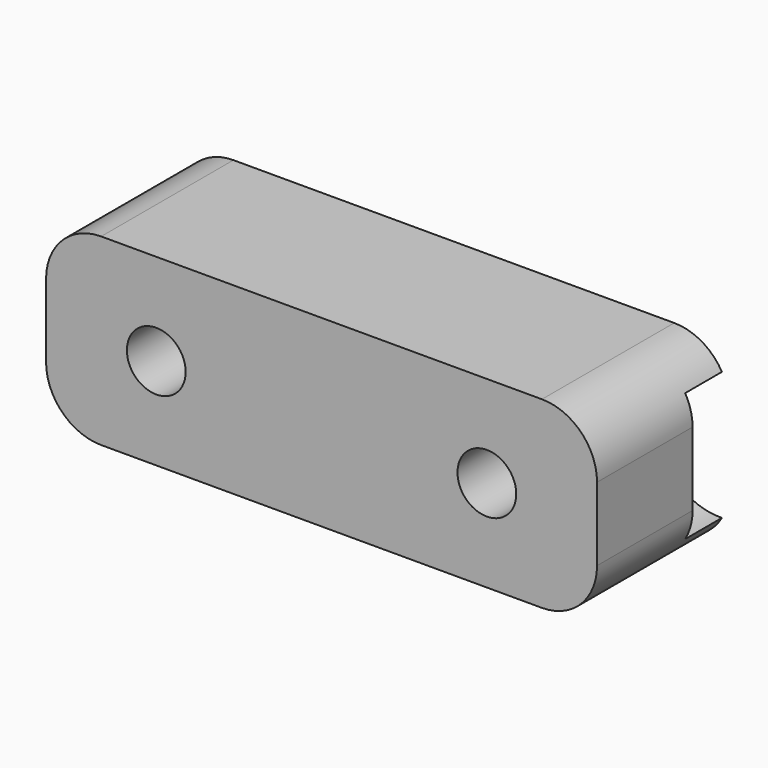
from build123d import *

# Parameters (mm, degrees)
CYLINDER465_R     = 3.5
CYLINDER465_DEPTH = 2.5
CYLINDER152_R     = 1.6
CYLINDER152_DEPTH = 9
CYLINDER153_R     = 1.6
CYLINDER153_DEPTH = 9
CYLINDER154_R     = 1.6
CYLINDER154_DEPTH = 9
CYLINDER155_R     = 1.6
CYLINDER155_DEPTH = 9
BOX072_W          = 30
BOX072_H          = 9
BOX072_DEPTH      = 10
FILLET035_R       = 3


with BuildPart() as cylinder579:
    # Cylinder465 → Cylinder465 (new body)
    with BuildSketch(Plane(origin=(569.5, -10, 10), x_dir=(1, 0, 0), z_dir=(0, -1, 0))):
        Circle(CYLINDER465_R)
    extrude(amount=CYLINDER465_DEPTH)


with BuildPart() as cylinder152:
    # Cylinder152 → Cylinder152 (new body)
    with BuildSketch(Plane(origin=(555, -5, 10), x_dir=(1, 0, 0), z_dir=(0, -1, 0))):
        Circle(CYLINDER152_R)
    extrude(amount=CYLINDER152_DEPTH)


with BuildPart() as fusion138:
    # Cylinder153 → Cylinder153 (new body)
    with BuildSketch(Plane(origin=(450, -5, 10), x_dir=(1, 0, 0), z_dir=(0, -1, 0))):
        Circle(CYLINDER153_R)
    extrude(amount=CYLINDER153_DEPTH)

    # Fusion138: union Cylinder152
    add(cylinder152.part)


with BuildPart() as fusion138_1:
    # Fusion138 placement: moved
    add(fusion138.part.moved(Location((-9, 5, 0))))


with BuildPart() as cylinder154:
    # Cylinder154 → Cylinder154 (new body)
    with BuildSketch(Plane(origin=(555, -5, 10), x_dir=(1, 0, 0), z_dir=(0, -1, 0))):
        Circle(CYLINDER154_R)
    extrude(amount=CYLINDER154_DEPTH)


with BuildPart() as fusion137:
    # Cylinder155 → Cylinder155 (new body)
    with BuildSketch(Plane(origin=(450, -5, 10), x_dir=(1, 0, 0), z_dir=(0, -1, 0))):
        Circle(CYLINDER155_R)
    extrude(amount=CYLINDER155_DEPTH)

    # Fusion139: union Cylinder154
    add(cylinder154.part)


with BuildPart() as fusion137_1:
    # Fusion139 placement: moved
    add(fusion137.part.moved(Location((9, 5, 0))))

    # Fusion137: union Fusion138
    add(fusion138_1.part)


with BuildPart() as fender_spacer_rear_left:
    # Box072 → Box072 (new body)
    with BuildSketch(Plane(origin=(435, -9, 5), x_dir=(1, 0, 0), z_dir=(0, 0, 1))):
        with Locations((15, 4.5)):
            Rectangle(BOX072_W, BOX072_H)
    extrude(amount=BOX072_DEPTH)

    # Fillet035
    fillet035_edges = [fender_spacer_rear_left.edges().sort_by_distance(p)[0] for p in [
        (435, -4.5, 15),
        (435, -4.5, 5),
        (465, -4.5, 15),
        (465, -4.5, 5),
    ]]
    fillet(fillet035_edges, radius=FILLET035_R)


with BuildPart() as fender_spacer_rear_left_1:
    # Fillet035 placement: moved
    add(fender_spacer_rear_left.part.moved(Location((105, 0, 0))))

    # Cut082: cut Fusion137
    add(fusion137_1.part, mode=Mode.SUBTRACT)


with BuildPart() as fender_spacer_rear_left_2:
    # Cut082 placement: moved
    add(fender_spacer_rear_left_1.part.moved(Location((0, -10, 0))))

    # Cut321: cut Cylinder579
    add(cylinder579.part, mode=Mode.SUBTRACT)


solid = fender_spacer_rear_left_2.part
